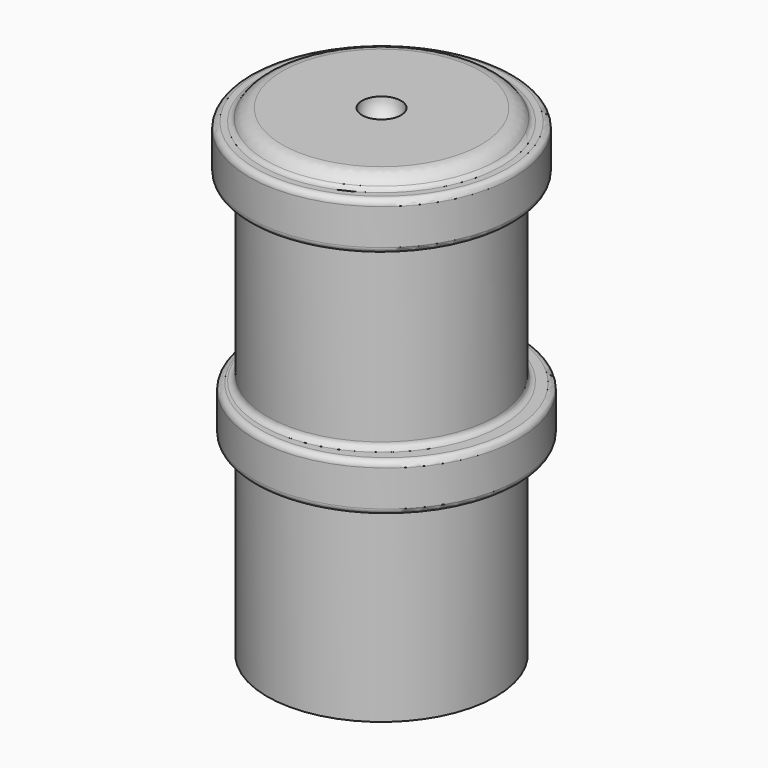
from build123d import *

# Parameters (mm, degrees)
F0_R      = 9.5
F2_DEPTH  = 16
F3_R      = 11
F4_DEPTH  = 4
F5_R      = 9.5
F6_DEPTH  = 15
F7_R      = 11
F8_DEPTH  = 4
F9_R      = 9.5
F10_DEPTH = 1
F11_R     = 0.5
F12_R     = 1.5
F1_R      = 8.65
F13_DEPTH = 37.5


with BuildPart() as f2:
    # F0 (on Top) → F2 (new body)
    with BuildSketch(Plane.XY):
        Circle(F0_R)
    extrude(amount=F2_DEPTH)

    # F3 (on face) → F4 (join)
    with BuildSketch(Plane.XY.offset(16)):
        with Locations((0.4107271394, 0)):
            Circle(F3_R)
    extrude(amount=F4_DEPTH)

    # F5 (on face) → F6 (join)
    with BuildSketch(Plane.XY.offset(20)):
        Circle(F5_R)
    extrude(amount=F6_DEPTH)

    # F7 (on face) → F8 (join)
    with BuildSketch(Plane.XY.offset(35)):
        Circle(F7_R)
    extrude(amount=F8_DEPTH)

    # F9 (on face) → F10 (join)
    with BuildSketch(Plane.XY.offset(39)):
        Circle(F9_R)
    extrude(amount=F10_DEPTH)

    # F11
    f11_edges = [f2.edges().sort_by_distance(p)[0] for p in [
        (-9.5, 0, 16),
        (-10.589273, 0, 16),
        (-10.589273, 0, 20),
        (-9.5, 0, 20),
        (-9.5, 0, 35),
        (-11, 0, 35),
        (-11, 0, 39),
        (-9.5, 0, 39),
    ]]
    fillet(f11_edges, radius=F11_R)

    # F12
    f12_edges = [f2.edges().sort_by_distance(p)[0] for p in [
        (-9.5, 0, 40),
    ]]
    fillet(f12_edges, radius=F12_R)

    # F1 (on face) → F13 (cut)
    with BuildSketch(Plane.XY):
        Circle(F1_R)
    extrude(amount=F13_DEPTH, mode=Mode.SUBTRACT)

    # F14 (on Front) → F15 (revolve, cut)
    with BuildSketch(Plane.XZ):
        with BuildLine():
            Line((-1.625, 40), (1.625, 40))
            ThreePointArc((1.625, 40), (0, 41.625), (-1.625, 40))
        make_face()
    revolve(axis=Axis((0.0630789436, 0, 40), (1, 0, 0)), mode=Mode.SUBTRACT)


solid = f2.part
